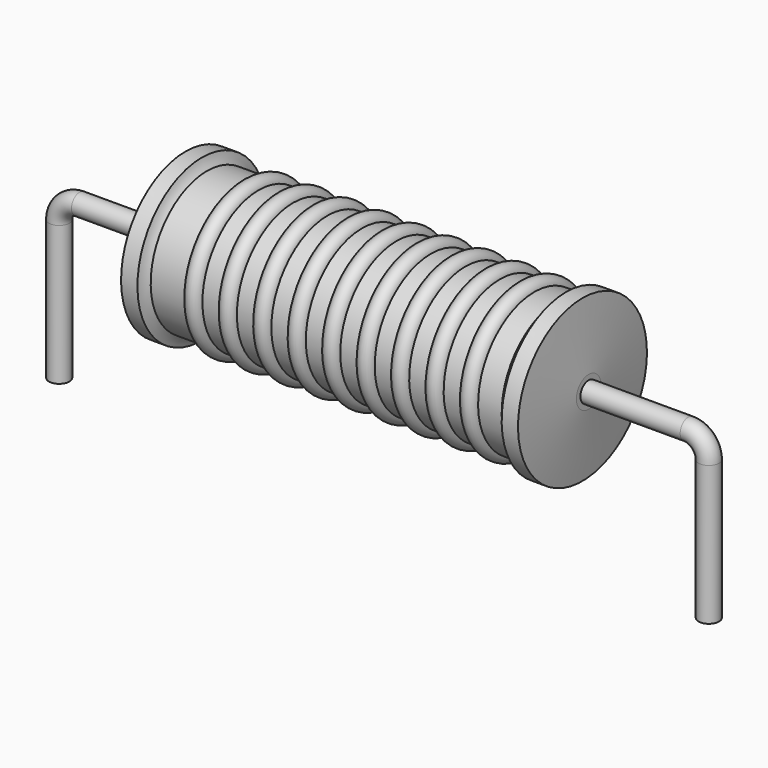
from build123d import *

# Parameters (mm, degrees)
SKETCH_R = 0.4


with BuildPart() as revolution:
    # Sketch002 → Revolution (revolve)
    with BuildSketch(Plane.XZ):
        with BuildLine():
            Line((4.94, 6.4), (5.58, 6.4))
            ThreePointArc((5.58, 6.4), (5.657022, 6.189121), (5.778, 6))
            Line((5.778, 6), (19.5, 6))
            ThreePointArc((19.5, 6), (19.680612, 6.18351), (19.82, 6.4))
            Line((19.82, 6.4), (20.46, 6.4))
            ThreePointArc((20.7, 3.85), (20.582487, 5.125234), (20.46, 6.4))
            Line((20.7, 3.25), (20.7, 3.85))
            Line((4.7, 3.25), (20.7, 3.25))
            Line((4.7, 3.25), (4.7, 3.85))
            ThreePointArc((4.94, 6.4), (4.817513, 5.125234), (4.7, 3.85))
        make_face()
    revolve(axis=Axis((4.7, 0, 3.25), (1, 0, 0)))


with BuildPart() as sweep_body:
    # Sweep: sweep along a path in Sketch001
    with BuildLine(Plane.XZ) as sweep_path:
        Line((0, -3), (0, 2.45))
        ThreePointArc((0, 2.45), (0.234311, 3.015682), (0.799991, 3.25))
        Line((0.799991, 3.25), (24.6, 3.25))
        ThreePointArc((24.6, 3.25), (25.165685, 3.015685), (25.4, 2.45))
        Line((25.4, 2.45), (25.4, -3))
    # Sketch → Sweep (sweep)
    with BuildSketch(Plane.XY.offset(-2)):
        Circle(SKETCH_R)
    sweep(path=sweep_path.line)


with BuildPart() as revolution001:
    # Sketch003 → Revolution001 (revolve)
    with BuildSketch(Plane.XZ):
        with BuildLine():
            ThreePointArc((7.807368, 5.936), (7.470526, 6.272842), (7.133684, 5.936))
            Line((6.46, 5.936), (7.133684, 5.936))
            Line((6.46, 5.936), (6.46, 5.306))
            Line((6.46, 5.306), (19.26, 5.306))
            Line((19.26, 5.306), (19.26, 5.936))
            Line((18.586316, 5.936), (19.26, 5.936))
            ThreePointArc((18.586316, 5.936), (18.249474, 6.272842), (17.912632, 5.936))
            Line((17.238947, 5.936), (17.912632, 5.936))
            ThreePointArc((17.238947, 5.936), (16.902105, 6.272842), (16.565263, 5.936))
            Line((15.891579, 5.936), (16.565263, 5.936))
            ThreePointArc((15.891579, 5.936), (15.554737, 6.272842), (15.217895, 5.936))
            Line((14.544211, 5.936), (15.217895, 5.936))
            ThreePointArc((14.544211, 5.936), (14.207368, 6.272842), (13.870526, 5.936))
            Line((13.196842, 5.936), (13.870526, 5.936))
            ThreePointArc((13.196842, 5.936), (12.86, 6.272842), (12.523158, 5.936))
            Line((11.849474, 5.936), (12.523158, 5.936))
            ThreePointArc((11.849474, 5.936), (11.512632, 6.272842), (11.175789, 5.936))
            Line((10.502105, 5.936), (11.175789, 5.936))
            ThreePointArc((10.502105, 5.936), (10.165263, 6.272842), (9.828421, 5.936))
            Line((9.154737, 5.936), (9.828421, 5.936))
            ThreePointArc((9.154737, 5.936), (8.817895, 6.272842), (8.481053, 5.936))
            Line((7.807368, 5.936), (8.481053, 5.936))
        make_face()
    revolve(axis=Axis((5.1, 0, 3.25), (1, 0, 0)))


solid = Compound([revolution.part, sweep_body.part, revolution001.part])
